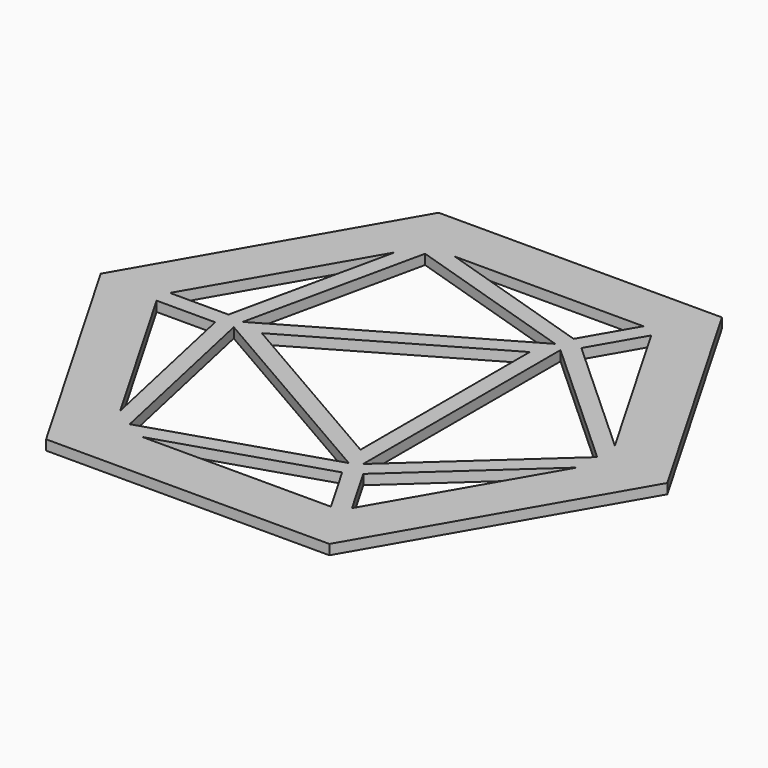
from build123d import *

# Parameters (mm, degrees)
F1_DEPTH = 3
F3_DEPTH = 3


with BuildPart() as f1:
    # F0 (on Top) → F1 (new body)
    with BuildSketch(Plane.XY):
        Polygon((85, 0), (42.5, 73.612159), (-42.5, 73.612159), (-85, 0), (-42.5, -73.612159), (42.5, -73.612159), align=None)
        Polygon((-33.839746, 58.612159), (33.839746, 58.612159), (67.679492, 0), (33.839746, -58.612159), (-33.839746, -58.612159), (-67.679492, 0), align=None, mode=Mode.SUBTRACT)
    extrude(amount=F1_DEPTH)

    # F2 (on Top) → F3 (join)
    with BuildSketch(Plane.XY):
        Polygon((30.952995, 58.612159), (22.169549, 43.398785), (-25.601158, 58.612159), (-36.98536, 64.074218), (-37.95904, 51.477333), (-48.669224, 2.5), (-66.236116, 2.5), (-72.461009, 1.437369), (-66.236116, -2.5), (-48.669224, -2.5), (-37.95904, -51.477333), (-37.860926, -64.184755), (-25.601158, -58.612159), (22.169549, -43.398785), (30.952995, -58.612159), (34.223072, -60.348373), (35.283122, -56.112159), (26.499676, -40.898785), (63.560198, -7.134827), (71.391637, 0), (63.560198, 7.134827), (26.499676, 40.898785), (35.283122, 56.112159), (37.067572, 58.612159), (32.117438, 61.415982), align=None)
        Polygon((-43.727987, -1.690974), (20.399567, -38.715034), (-31.983673, -55.397347), align=None, mode=Mode.SUBTRACT)
        Polygon((-36.656839, 0), (18.32842, 31.745754), (18.32842, -31.745754), align=None, mode=Mode.SUBTRACT)
        Polygon((20.399567, 38.715034), (-43.727987, 1.690974), (-31.983673, 55.397347), align=None, mode=Mode.SUBTRACT)
        Polygon((23.32842, -37.024061), (23.32842, 37.024061), (63.967346, 0), align=None, mode=Mode.SUBTRACT)
    extrude(amount=F3_DEPTH)


solid = f1.part
